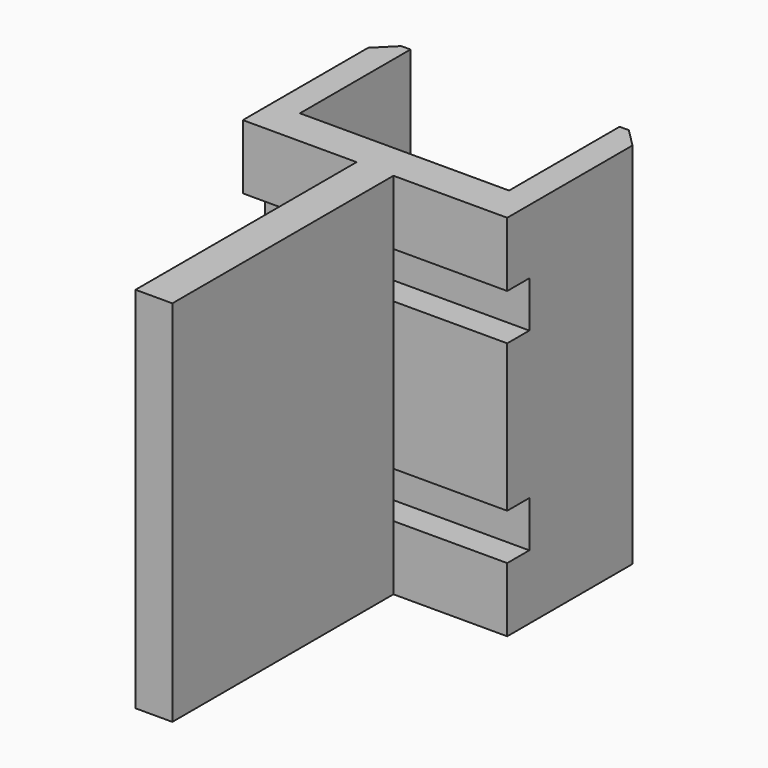
from build123d import *

# Parameters (mm, degrees)
PAD_DEPTH    = 40
SKETCH001_W  = 3
SKETCH001_H  = 5
POCKET_DEPTH = 28.701
CHAMFER_SIZE = 2


with BuildPart() as part:
    # Sketch → Pad (new body)
    with BuildSketch(Plane.XY):
        Polygon((-14.35, 19), (-11.35, 19), (-11.35, 4), (11.35, 4), (11.35, 19), (14.35, 19), (14.35, 0), (2, 0), (2, -30), (-2, -30), (-2, 0), (-14.35, 0), align=None)
    extrude(amount=PAD_DEPTH)

    # Sketch001 (on Face6 of Pad) → Pocket (cut, through all)
    with BuildSketch(Plane.YZ.offset(14.35)):
        with Locations((1.5, 30.5)):
            Rectangle(SKETCH001_W, SKETCH001_H)
        with Locations((1.5, 9.5)):
            Rectangle(SKETCH001_W, SKETCH001_H)
    extrude(amount=-POCKET_DEPTH, mode=Mode.SUBTRACT)

    # Chamfer
    chamfer_edges = [part.edges().sort_by_distance(p)[0] for p in [
        (-14.35, 19, 20),
        (14.35, 19, 20),
    ]]
    chamfer(chamfer_edges, length=CHAMFER_SIZE)


solid = part.part
